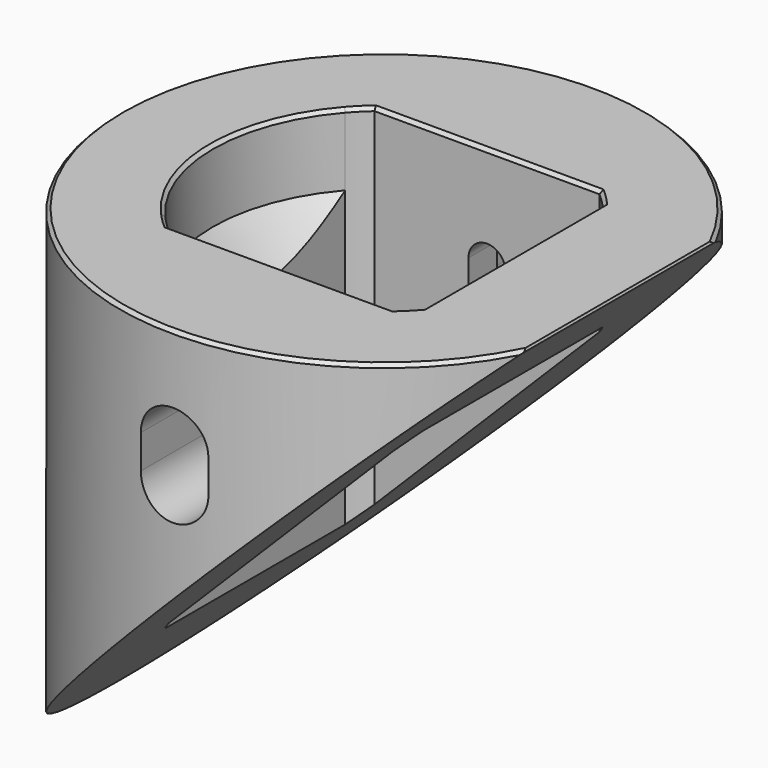
from build123d import *

# Parameters (mm, degrees)
CYLINDER010_R        = 31.25
CYLINDER010_DEPTH    = 71.327905
POCKET071_DEPTH      = 43.251
POCKET071_DEPTH_BACK = 28.078905
POCKET084_DEPTH      = 8.5
POCKET085_DEPTH      = 31.251
POCKET085_DEPTH_BACK = 31.251
GROOVE_ANGLE         = -90
POCKET192_DEPTH      = 220.995838
CHAMFER003_SIZE      = 0.4


with BuildPart() as part:
    # Cylinder010 → Cylinder010 (join)
    with BuildSketch(Plane.XY.offset(-43.25)):
        Circle(CYLINDER010_R)
    extrude(amount=CYLINDER010_DEPTH)

    # Sketch132 → Pocket071 (cut, two sides)
    with BuildSketch(Plane.XY) as pocket071_sk:
        with BuildLine():
            Line((-13.322913, 15.25), (13.322913, 15.25))
            ThreePointArc((15.25, 13.322913), (14.318912, 14.318912), (13.322913, 15.25))
            Line((15.25, 13.322913), (15.25, -13.322913))
            ThreePointArc((13.322913, -15.25), (14.318912, -14.318912), (15.25, -13.322913))
            Line((-13.322913, -15.25), (13.322913, -15.25))
            ThreePointArc((-15.25, -13.322913), (-14.318912, -14.318912), (-13.322913, -15.25))
            Line((-15.25, 13.322913), (-15.25, -13.322913))
            ThreePointArc((-13.322913, 15.25), (-14.318912, 14.318912), (-15.25, 13.322913))
        make_face()
    extrude(amount=-POCKET071_DEPTH, mode=Mode.SUBTRACT)
    extrude(pocket071_sk.sketch, amount=POCKET071_DEPTH_BACK, mode=Mode.SUBTRACT)

    # Sketch140 → Pocket084 (cut)
    with BuildSketch(Plane.XY.offset(28.077905)):
        with BuildLine():
            ThreePointArc((-13.322913, 15.25), (-20.25, 0), (-13.322913, -15.25))
            Line((-13.322913, 15.25), (-13.322913, -15.25))
        make_face()
    extrude(amount=-POCKET084_DEPTH, mode=Mode.SUBTRACT)

    # Sketch130 → Pocket085 (cut, two sides)
    with BuildSketch(Plane.XZ) as pocket085_sk:
        Polygon((-33.55, -33.55), (33.55, 33.55), (33.55, -61.55), (-33.55, -61.55), align=None)
        with BuildLine():
            ThreePointArc((2.2, 16), (0, 18.2), (-2.2, 16))
            Line((-2.2, 16), (-2.2, 12))
            ThreePointArc((-2.2, 12), (0, 9.8), (2.2, 12))
            Line((2.2, 16), (2.2, 12))
        make_face()
    extrude(amount=-POCKET085_DEPTH, mode=Mode.SUBTRACT)
    extrude(pocket085_sk.sketch, amount=POCKET085_DEPTH_BACK, mode=Mode.SUBTRACT)

    # Sketch → Groove (revolve, symmetric, cut)
    with BuildSketch(Plane.XZ) as groove_sk:
        Polygon((-20.25, 19.577905), (0, 19.577905), (0, -0.672095), align=None)
    revolve(axis=Axis((0, 0, 0), (0, 0, 1)), revolution_arc=GROOVE_ANGLE / 2, mode=Mode.SUBTRACT)
    revolve(groove_sk.sketch, axis=Axis((0, 0, 0), (0, 0, -1)), revolution_arc=GROOVE_ANGLE / 2, mode=Mode.SUBTRACT)

    # Sketch131 → Pocket192 (cut, through all)
    with BuildSketch(Plane.XZ.offset(19.5)):
        with BuildLine():
            ThreePointArc((4, 16), (0, 20), (-4, 16))
            Line((-4, 16), (-4, 12))
            ThreePointArc((-4, 12), (0, 8), (4, 12))
            Line((4, 16), (4, 12))
        make_face()
    pocket192 = extrude(amount=POCKET192_DEPTH, mode=Mode.SUBTRACT)

    # Mirrored009: Pocket192 across XZ
    add(pocket192.mirror(Plane.XZ), mode=Mode.SUBTRACT)

    # Chamfer003
    chamfer003_edges = [part.edges().sort_by_distance(p)[0] for p in [
        (-31.25, 0, 28.077905),
        (28.077905, 0, 28.077905),
        (14.318912, -14.318912, 28.077905),
        (15.25, 0, 28.077905),
        (14.318912, 14.318912, 28.077905),
        (0, 15.25, 28.077905),
        (-14.318912, 14.318912, 28.077905),
        (-20.25, 0, 28.077905),
        (-14.318912, -14.318912, 28.077905),
        (0, -15.25, 28.077905),
    ]]
    chamfer(chamfer003_edges, length=CHAMFER003_SIZE)


with BuildPart() as part_1:
    # Body022026 placement: moved
    add(part.part.moved(Location((-3.125, 0, 854.79899))))


solid = part_1.part
